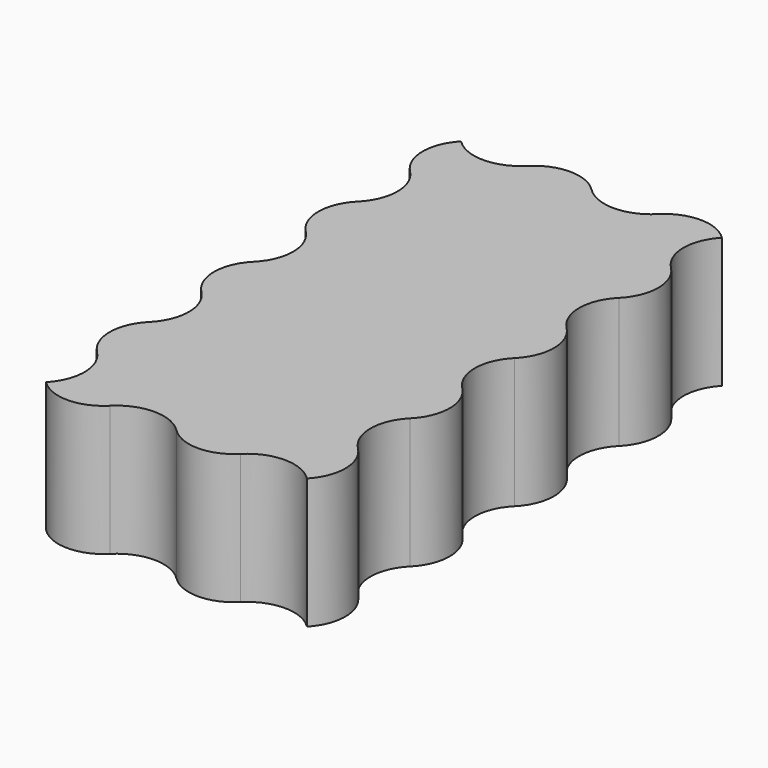
from build123d import *

# Parameters (mm, degrees)
SKETCH016_W                             = 90
SKETCH016_H                             = 2.6
PAD005_DEPTH                            = 65
POCKET006_DEPTH                         = 316.271517
POCKET006_DEPTH_BACK                    = 318.871517
POCKET006_LINEARPATTERN003_2_DEPTH      = 316.271517
POCKET006_LINEARPATTERN003_2_DEPTH_BACK = 318.871517
LINEARPATTERN004_COUNT                  = 4
LINEARPATTERN004_PITCH                  = 30
SKETCH018_W                             = 120
SKETCH018_H                             = 175
POCKET007_DEPTH                         = 2.601
PAD006_DEPTH                            = 30


with BuildPart() as part:
    # Sketch016 → Pad005 (new body, symmetric)
    with BuildSketch(Plane.XZ):
        with Locations((0, 1.3)):
            Rectangle(SKETCH016_W, SKETCH016_H)
    extrude(amount=PAD005_DEPTH, both=True)

    # Sketch017 → Pocket006 (cut, two sides)
    with BuildSketch(Plane.XY) as pocket006_sk:
        with BuildLine():
            ThreePointArc((-30, 57.87868), (-22.5, 55.300828), (-15, 57.87868))
            ThreePointArc((-15, 47.12132), (-13.270688, 52.5), (-15, 57.87868))
            ThreePointArc((-15, 47.12132), (-22.5, 49.699172), (-30, 47.12132))
            ThreePointArc((-30, 57.87868), (-31.729312, 52.5), (-30, 47.12132))
        make_face()
        with BuildLine():
            ThreePointArc((-2.12132, 60), (-7.5, 61.729312), (-12.87868, 60))
            ThreePointArc((-12.87868, 45), (-10.300828, 52.5), (-12.87868, 60))
            ThreePointArc((-12.87868, 45), (-7.5, 43.270688), (-2.12132, 45))
            ThreePointArc((-2.12132, 60), (-4.699172, 52.5), (-2.12132, 45))
        make_face()
        with BuildLine():
            ThreePointArc((-17.12132, 45), (-22.5, 46.729312), (-27.87868, 45))
            ThreePointArc((-27.87868, 30), (-25.300828, 37.5), (-27.87868, 45))
            ThreePointArc((-27.87868, 30), (-22.5, 28.270688), (-17.12132, 30))
            ThreePointArc((-17.12132, 45), (-19.699172, 37.5), (-17.12132, 30))
        make_face()
        with BuildLine():
            ThreePointArc((-15, 42.87868), (-16.729312, 37.5), (-15, 32.12132))
            ThreePointArc((0, 32.12132), (-7.5, 34.699172), (-15, 32.12132))
            ThreePointArc((0, 32.12132), (1.729312, 37.5), (0, 42.87868))
            ThreePointArc((-15, 42.87868), (-7.5, 40.300828), (0, 42.87868))
        make_face()
    pocket006 = extrude(amount=-POCKET006_DEPTH, mode=Mode.SUBTRACT) + extrude(pocket006_sk.sketch, amount=POCKET006_DEPTH_BACK, mode=Mode.SUBTRACT)

    # Sketch017 LinearPattern003 2 → Pocket006 LinearPattern003 2 (cut, two sides)
    with BuildSketch(Plane(origin=(30, 0, 0), x_dir=(1, 0, 0), z_dir=(0, 0, 1))) as pocket006_linearpattern003_2_sk:
        with BuildLine():
            ThreePointArc((-30, 57.87868), (-22.5, 55.300828), (-15, 57.87868))
            ThreePointArc((-15, 47.12132), (-13.270688, 52.5), (-15, 57.87868))
            ThreePointArc((-15, 47.12132), (-22.5, 49.699172), (-30, 47.12132))
            ThreePointArc((-30, 57.87868), (-31.729312, 52.5), (-30, 47.12132))
        make_face()
        with BuildLine():
            ThreePointArc((-2.12132, 60), (-7.5, 61.729312), (-12.87868, 60))
            ThreePointArc((-12.87868, 45), (-10.300828, 52.5), (-12.87868, 60))
            ThreePointArc((-12.87868, 45), (-7.5, 43.270688), (-2.12132, 45))
            ThreePointArc((-2.12132, 60), (-4.699172, 52.5), (-2.12132, 45))
        make_face()
        with BuildLine():
            ThreePointArc((-17.12132, 45), (-22.5, 46.729312), (-27.87868, 45))
            ThreePointArc((-27.87868, 30), (-25.300828, 37.5), (-27.87868, 45))
            ThreePointArc((-27.87868, 30), (-22.5, 28.270688), (-17.12132, 30))
            ThreePointArc((-17.12132, 45), (-19.699172, 37.5), (-17.12132, 30))
        make_face()
        with BuildLine():
            ThreePointArc((-15, 42.87868), (-16.729312, 37.5), (-15, 32.12132))
            ThreePointArc((0, 32.12132), (-7.5, 34.699172), (-15, 32.12132))
            ThreePointArc((0, 32.12132), (1.729312, 37.5), (0, 42.87868))
            ThreePointArc((-15, 42.87868), (-7.5, 40.300828), (0, 42.87868))
        make_face()
    pocket006_linearpattern003_2 = extrude(amount=-POCKET006_LINEARPATTERN003_2_DEPTH, mode=Mode.SUBTRACT) + extrude(pocket006_linearpattern003_2_sk.sketch, amount=POCKET006_LINEARPATTERN003_2_DEPTH_BACK, mode=Mode.SUBTRACT)

    # LinearPattern004: Pocket006, Pocket006 LinearPattern003 2 ×4
    with Locations(*[(0, -i * LINEARPATTERN004_PITCH, 0) for i in range(1, LINEARPATTERN004_COUNT)]):
        add(pocket006, mode=Mode.SUBTRACT)
        add(pocket006_linearpattern003_2, mode=Mode.SUBTRACT)

    # Sketch018 → Pocket007 (cut, through all)
    with BuildSketch(Plane.XY):
        Rectangle(SKETCH018_W, SKETCH018_H)
        with BuildLine():
            ThreePointArc((-30.150681, 59.846229), (-33.106055, 52.392354), (-30, 45))
            ThreePointArc((-30, 30), (-26.893398, 37.5), (-30, 45))
            ThreePointArc((-30, 30), (-33.106602, 22.5), (-30, 15))
            ThreePointArc((-30, 0), (-26.893398, 7.5), (-30, 15))
            ThreePointArc((-30, 0), (-33.106602, -7.5), (-30, -15))
            ThreePointArc((-30, -30), (-26.893398, -22.5), (-30, -15))
            ThreePointArc((-30, -30), (-33.106602, -37.5), (-30, -45))
            ThreePointArc((-29.849318, -59.846228), (-26.893945, -52.392354), (-30, -45))
            ThreePointArc((-29.849318, -59.846228), (-22.501092, -62.891321), (-15.152226, -59.847774))
            ThreePointArc((0.152226, -59.847774), (-7.5, -56.678118), (-15.152226, -59.847774))
            ThreePointArc((0.152226, -59.847774), (7.5, -62.891321), (14.847774, -59.847774))
            ThreePointArc((30.150681, -59.846229), (22.498908, -56.678118), (14.847774, -59.847774))
            ThreePointArc((30.150681, -59.846229), (33.106055, -52.392354), (30, -45))
            ThreePointArc((30, -30), (26.893398, -37.5), (30, -45))
            ThreePointArc((30, -30), (33.106602, -22.5), (30, -15))
            ThreePointArc((30, 0), (26.893398, -7.5), (30, -15))
            ThreePointArc((30, 0), (33.106602, 7.5), (30, 15))
            ThreePointArc((30, 30), (26.893398, 22.5), (30, 15))
            ThreePointArc((30, 30), (33.106602, 37.5), (30, 45))
            ThreePointArc((29.849318, 59.846228), (26.893945, 52.392354), (30, 45))
            ThreePointArc((29.849318, 59.846228), (22.501092, 62.891321), (15.152226, 59.847774))
            ThreePointArc((-0.152226, 59.847774), (7.5, 56.678118), (15.152226, 59.847774))
            ThreePointArc((-0.152226, 59.847774), (-7.5, 62.891321), (-14.847774, 59.847774))
            ThreePointArc((-30.150681, 59.846229), (-22.498908, 56.678118), (-14.847774, 59.847774))
        make_face(mode=Mode.SUBTRACT)
    extrude(amount=POCKET007_DEPTH, mode=Mode.SUBTRACT)

    # Sketch019 → Pad006 (join)
    with BuildSketch(Plane.XY):
        with BuildLine():
            ThreePointArc((-30.150681, 59.846229), (-33.106055, 52.392354), (-30, 45))
            ThreePointArc((-30, 30), (-26.893398, 37.5), (-30, 45))
            ThreePointArc((-30, 30), (-33.106602, 22.5), (-30, 15))
            ThreePointArc((-30, 0), (-26.893398, 7.5), (-30, 15))
            ThreePointArc((-30, 0), (-33.106602, -7.5), (-30, -15))
            ThreePointArc((-30, -30), (-26.893398, -22.5), (-30, -15))
            ThreePointArc((-30, -30), (-33.106602, -37.5), (-30, -45))
            ThreePointArc((-29.849318, -59.846228), (-26.893945, -52.392354), (-30, -45))
            ThreePointArc((-29.849318, -59.846228), (-22.501092, -62.891321), (-15.152226, -59.847774))
            ThreePointArc((0.152226, -59.847774), (-7.5, -56.678118), (-15.152226, -59.847774))
            ThreePointArc((0.152226, -59.847774), (7.5, -62.891321), (14.847774, -59.847774))
            ThreePointArc((30.150681, -59.846229), (22.498908, -56.678118), (14.847774, -59.847774))
            ThreePointArc((30.150681, -59.846229), (33.106055, -52.392354), (30, -45))
            ThreePointArc((30, -30), (26.893398, -37.5), (30, -45))
            ThreePointArc((30, -30), (33.106602, -22.5), (30, -15))
            ThreePointArc((30, 0), (26.893398, -7.5), (30, -15))
            ThreePointArc((30, 0), (33.106602, 7.5), (30, 15))
            ThreePointArc((30, 30), (26.893398, 22.5), (30, 15))
            ThreePointArc((30, 30), (33.106602, 37.5), (30, 45))
            ThreePointArc((29.849318, 59.846228), (26.893945, 52.392354), (30, 45))
            ThreePointArc((29.849318, 59.846228), (22.501092, 62.891321), (15.152226, 59.847774))
            ThreePointArc((-0.152226, 59.847774), (7.5, 56.678118), (15.152226, 59.847774))
            ThreePointArc((-0.152226, 59.847774), (-7.5, 62.891321), (-14.847774, 59.847774))
            ThreePointArc((-30.150681, 59.846229), (-22.498908, 56.678118), (-14.847774, 59.847774))
        make_face()
    extrude(amount=PAD006_DEPTH)


solid = part.part
